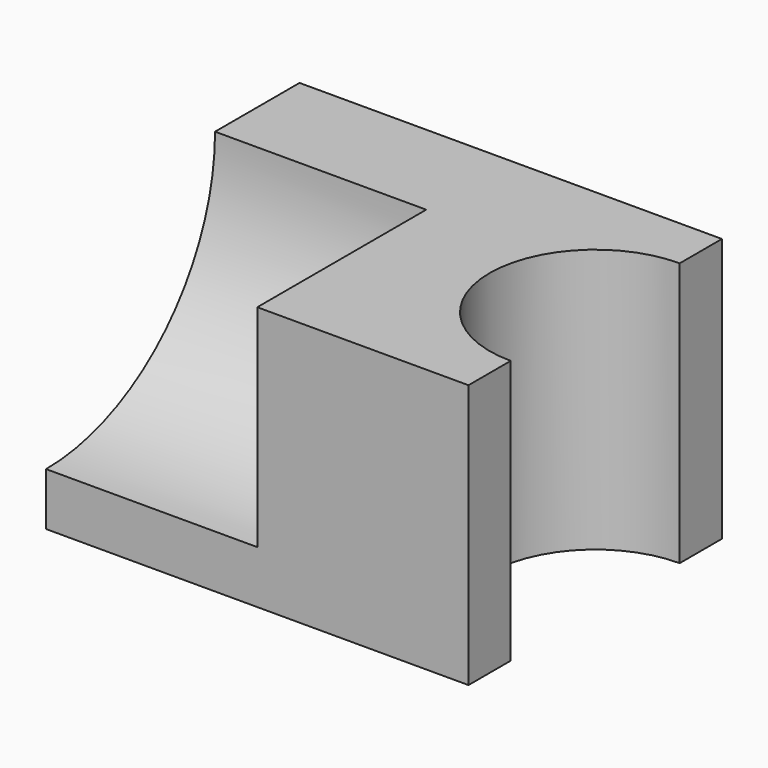
from build123d import *

# Parameters (mm, degrees)
F0_W     = 76.2
F0_H     = 63.5
F1_DEPTH = 101.6
F3_DEPTH = 63.5
F5_DEPTH = 50.8


with BuildPart() as f1:
    # F0 (on Right) → F1 (new body)
    with BuildSketch(Plane.YZ):
        with Locations((6.210162, -15.445274)):
            Rectangle(F0_W, F0_H)
    extrude(amount=-F1_DEPTH)

    # F2 (on face) → F3 (cut)
    with BuildSketch(Plane.XY.offset(16.304726)):
        with BuildLine():
            Line((0, -19.189838), (0, 31.610162))
            ThreePointArc((0, 31.610162), (-25.4, 6.210162), (0, -19.189838))
        make_face()
    extrude(amount=-F3_DEPTH, mode=Mode.SUBTRACT)

    # F4 (on face) → F5 (cut)
    with BuildSketch(Plane(origin=(-101.6, 0, 0), x_dir=(0, -1, 0), z_dir=(-1, 0, 0))):
        with BuildLine():
            Line((31.889838, 16.304726), (-18.910162, 16.304726))
            ThreePointArc((-18.910162, 16.304726), (-4.031187, -19.616298), (31.889838, -34.495274))
            Line((31.889838, -34.495274), (31.889838, 16.304726))
        make_face()
    extrude(amount=-F5_DEPTH, mode=Mode.SUBTRACT)


solid = f1.part
